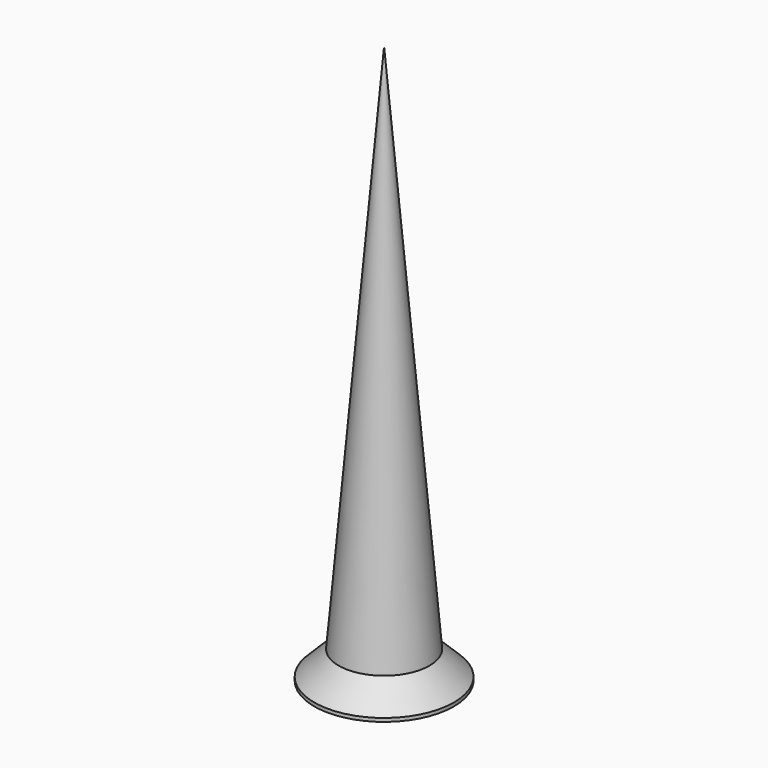
from build123d import *

# Parameters (mm, degrees)
POCKET002_DEPTH         = 0.2
POLARPATTERN001_COUNT   = 2
POLARPATTERN001_ANGLE   = 90
BODY008_PLACEMENT_ANGLE = 180


with BuildPart() as part:
    # Sketch026 → Revolution005 (revolve)
    with BuildSketch(Plane.XZ):
        Polygon((0, 0), (0, -16), (1.3, -0.8), (2, -0.1), (2, 0), align=None)
    revolve(axis=Axis((0, 0, 0), (0, 0, 1)))

    # Sketch027 → Pocket002 (cut, symmetric)
    with BuildSketch(Plane.XZ):
        Polygon((-1.15, 0), (0, -1.15), (1.15, 0), align=None)
    pocket002 = extrude(amount=POCKET002_DEPTH, both=True, mode=Mode.SUBTRACT)

    # PolarPattern001: Pocket002 ×2 about axis
    polarpattern001_axis = Axis((0, 0, 0), (0, 0, 1))
    for i in range(1, POLARPATTERN001_COUNT):
        add(pocket002.rotate(polarpattern001_axis, i * POLARPATTERN001_ANGLE / (POLARPATTERN001_COUNT - 1)), mode=Mode.SUBTRACT)


with BuildPart() as part_1:
    # Body008 placement: moved
    add(part.part.moved(Location((23, -68, -27.5))).rotate(Axis((23, -68, -27.5), (1, 0, 0)), BODY008_PLACEMENT_ANGLE))


solid = part_1.part
